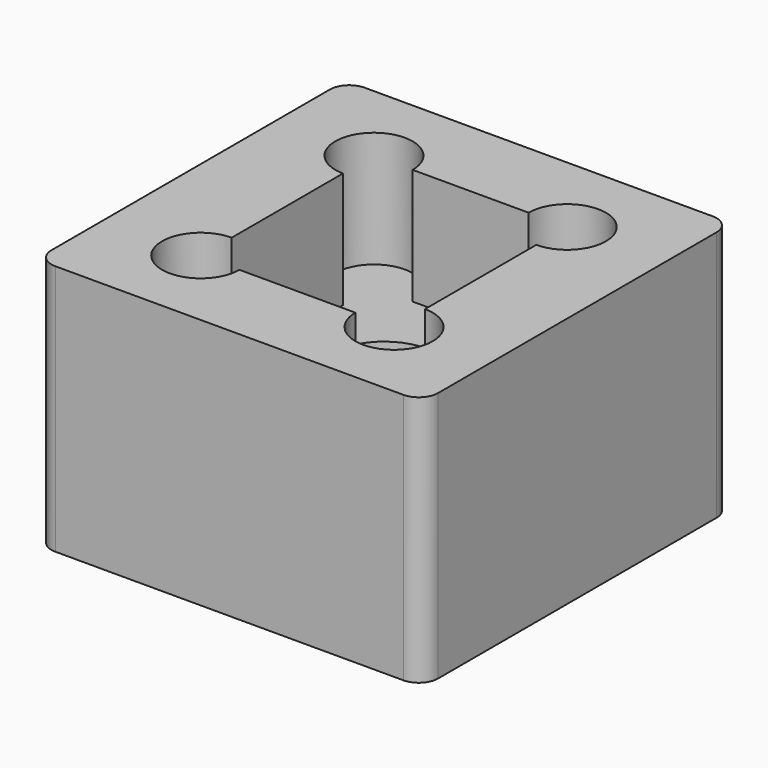
from build123d import *

# Parameters (mm, degrees)
F0_W      = 20
F0_H      = 20
F1_DEPTH  = 13
F2_R      = 1
F3_W      = 10
F3_H      = 11.2
F4_DEPTH  = 6
F5_R      = 2.75
F6_DEPTH  = 3
F8_DEPTH  = 6
F9_R      = 1.5
F10_DEPTH = 4.001


with BuildPart() as f1:
    # F0 (on Top) → F1 (new body)
    with BuildSketch(Plane.XY):
        Rectangle(F0_W, F0_H)
    extrude(amount=F1_DEPTH)

    # F2
    f2_edges = [f1.edges().sort_by_distance(p)[0] for p in [
        (10, -10, 6.5),
        (10, 10, 6.5),
        (-10, 10, 6.5),
        (-10, -10, 6.5),
    ]]
    fillet(f2_edges, radius=F2_R)

    # F3 (on face) → F4 (cut)
    with BuildSketch(Plane.XY.offset(13)):
        Rectangle(F3_W, F3_H)
    extrude(amount=-F4_DEPTH, mode=Mode.SUBTRACT)

    # F5 (on face) → F6 (cut)
    with BuildSketch(Plane.XY.offset(7)):
        Circle(F5_R)
    extrude(amount=-F6_DEPTH, mode=Mode.SUBTRACT)

    # F7 (on face) → F8 (cut)
    with BuildSketch(Plane.XY.offset(13)):
        with BuildLine():
            ThreePointArc((7, 5.6), (5, 7.6), (3, 5.6))
            Line((3, 5.6), (5, 5.6))
            Line((5, 5.6), (5, 3.6))
            ThreePointArc((5, 3.6), (6.4142135624, 4.1857864376), (7, 5.6))
        make_face()
        with BuildLine():
            Line((-5, -5.6), (-5, -3.6))
            ThreePointArc((-5, -3.6), (-6.4142135624, -7.0142135624), (-3, -5.6))
            Line((-3, -5.6), (-5, -5.6))
        make_face()
        with BuildLine():
            ThreePointArc((7, -5.6), (6.4142135624, -4.1857864376), (5, -3.6))
            Line((5, -3.6), (5, -5.6))
            Line((5, -5.6), (3, -5.6))
            ThreePointArc((3, -5.6), (5, -7.6), (7, -5.6))
        make_face()
        with BuildLine():
            Line((-5, 5.6), (-3, 5.6))
            ThreePointArc((-3, 5.6), (-6.4142135624, 7.0142135624), (-5, 3.6))
            Line((-5, 3.6), (-5, 5.6))
        make_face()
    extrude(amount=-F8_DEPTH, mode=Mode.SUBTRACT)

    # F9 (on face) → F10 (cut, through all)
    with BuildSketch(Plane.XY.offset(4)):
        Circle(F9_R)
    extrude(amount=-F10_DEPTH, mode=Mode.SUBTRACT)


solid = f1.part
